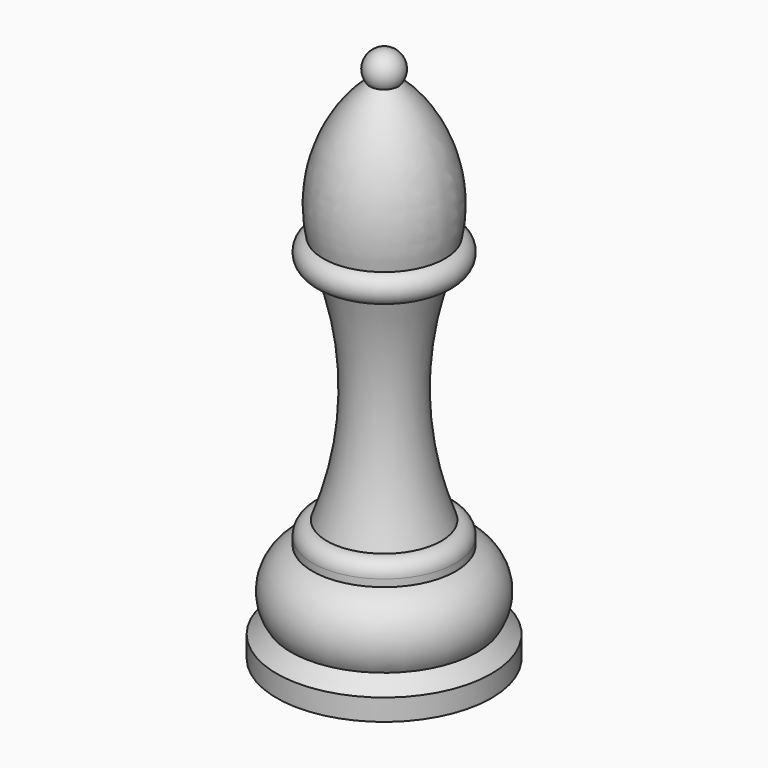
from build123d import *


with BuildPart() as f1:
    # F0 (on Front) → F1 (revolve)
    with BuildSketch(Plane.XZ):
        with BuildLine():
            ThreePointArc((2, -4), (2.236068, -1.381966), (0, 0))
            Line((0, 0), (0, -75))
            Line((0, -75), (15, -75))
            Line((15, -75), (15, -72))
            Line((15, -72), (13, -70))
            ThreePointArc((13, -70), (13.687761, -64.782697), (9.998517, -61.03))
            Line((9.998517, -61.03), (9.998517, -60.03))
            ThreePointArc((9.998517, -60.03), (9.441186, -58.566267), (8, -57.952983))
            ThreePointArc((8, -57.952983), (4.99225, -42.487435), (7.5, -26.932983))
            ThreePointArc((7.5, -26.932983), (9.936492, -25.496492), (8.5, -23.06))
            ThreePointArc((8.5, -23.06), (7.823916, -12.652222), (2, -4))
        make_face()
    revolve(axis=Axis((0, 0, -37.5), (0, 0, -1)))


solid = f1.part
